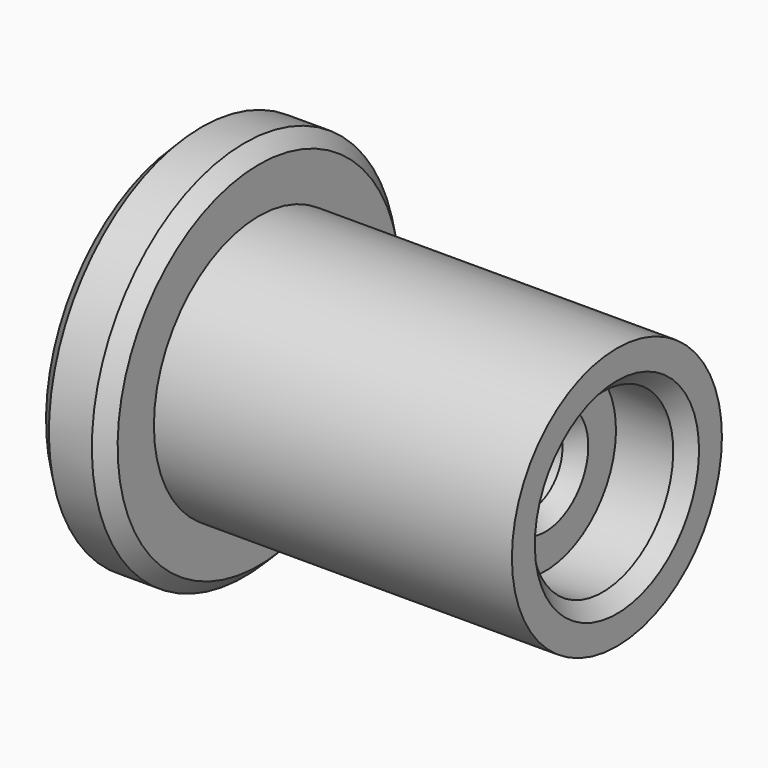
from build123d import *

# Parameters (mm, degrees)
F3_DEPTH = 3
F4_SIZE  = 0.6


with BuildPart() as f1:
    # F0 (on Front) → F1 (revolve)
    with BuildSketch(Plane.XZ):
        Polygon((3, 8), (0, 8), (0, 1.65), (15, 1.65), (15, 3.7), (18, 3.7), (18, 5.5), (3, 5.5), align=None)
    revolve(axis=Axis((6.870626, 0, 0), (1, 0, 0)))

    # F2 (on face) → F3 (cut)
    with BuildSketch(Plane(origin=(0, 0, 0), x_dir=(0, -1, 0), z_dir=(-1, 0, 0))):
        Polygon((-1.645448, -2.85), (1.645448, -2.85), (3.290897, 0), (1.645448, 2.85), (-1.645448, 2.85), (-3.290897, 0), align=None)
    extrude(amount=-F3_DEPTH, mode=Mode.SUBTRACT)

    # F4
    f4_edges = [f1.edges().sort_by_distance(p)[0] for p in [
        (0, 0, -8),
        (18, 0, -3.7),
        (15, 0, -1.65),
        (3, 0, -8),
    ]]
    chamfer(f4_edges, length=F4_SIZE)


solid = f1.part
